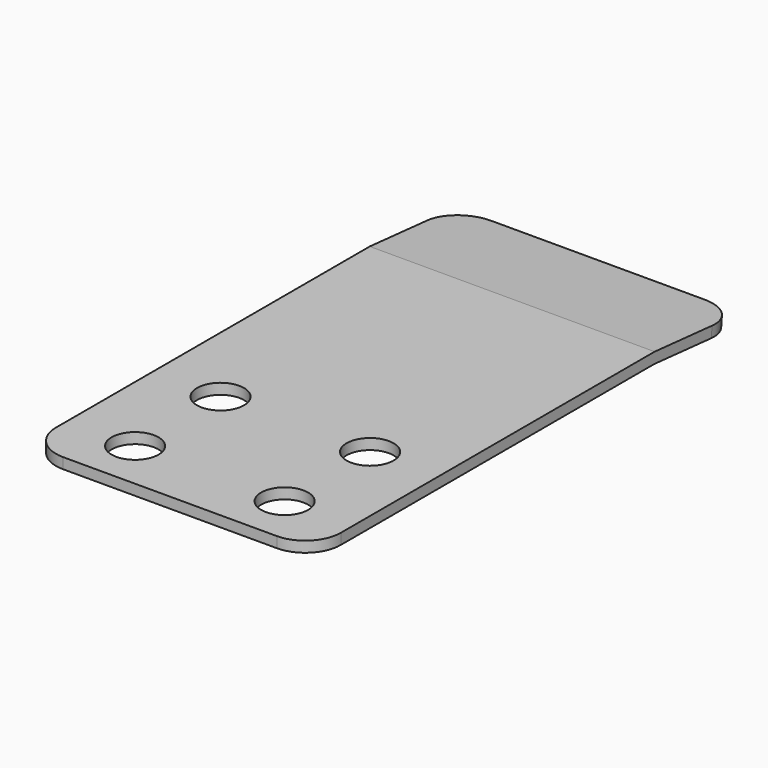
from build123d import *

# Parameters (mm, degrees)
F1_DEPTH = 20
F3_D     = 6.6
F3_DEPTH = 43
F3_TIP   = 1.9828400428
F4_R     = 5


with BuildPart() as f1:
    # F0 (on Right) → F1 (new body, symmetric)
    with BuildSketch(Plane.YZ):
        Polygon((0, 0), (0, -0.75), (60, -0.75), (75, -2.0623299529), (75.1307336141, -0.5680379058), (60.0654914144, 0.75), (0, 0.75), align=None)
    extrude(amount=F1_DEPTH, both=True)

    # F3
    with Locations(Plane.XY.offset(0.75)):
        with Locations((-10.5, 7), (10.5, 7), (10.5, 22), (-10.5, 22)):
            Hole(F3_D / 2, depth=F3_DEPTH)
            with Locations((0, 0, -(F3_DEPTH + F3_TIP / 2))):  # 118° drill point
                Cone(0, F3_D / 2, F3_TIP, mode=Mode.SUBTRACT)

    # F4
    f4_edges = [f1.edges().sort_by_distance(p)[0] for p in [
        (20, 75.065367, -1.315184),
        (-20, 75.065367, -1.315184),
        (20, 0, 0),
        (-20, 0, 0),
    ]]
    fillet(f4_edges, radius=F4_R)


solid = f1.part
